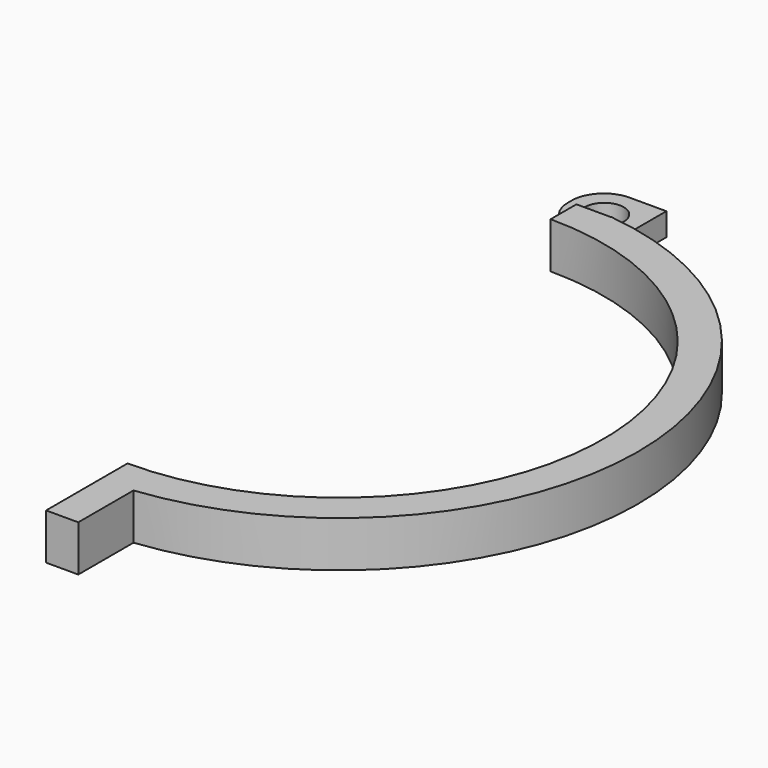
from build123d import *

# Parameters (mm, degrees)
SKETCH_R     = 4.25
PAD_DEPTH    = 10
SKETCH001_W  = 16
SKETCH001_H  = 16
POCKET_DEPTH = 5
FILLET_R     = 7


with BuildPart() as part:
    # Sketch → Pad (new body)
    with BuildSketch(Plane.XY):
        with BuildLine():
            ThreePointArc((0, -57.5), (57.5, 0), (0, 57.5))
            Line((0, 64.565858), (0, 57.5))
            Line((-7.5, 64.565858), (0, 64.565858))
            Line((-7.5, 79.565858), (-7.5, 64.565858))
            Line((7.5, 79.565858), (-7.5, 79.565858))
            Line((7.5, 64.565858), (7.5, 79.565858))
            ThreePointArc((7, -64.621978), (64.999513, -0.25157), (7.5, 64.565858))
            Line((7, -64.621978), (7, -79.621978))
            Line((7, -79.621978), (0, -79.621978))
            Line((0, -79.621978), (0, -57.5))
        make_face()
        with Locations((0, 72.065858)):
            Circle(SKETCH_R, mode=Mode.SUBTRACT)
    extrude(amount=PAD_DEPTH)

    # Sketch001 (on Face13 of Pad) → Pocket (cut)
    with BuildSketch(Plane.XY.offset(10)):
        with Locations((-0.5, 72.5)):
            Rectangle(SKETCH001_W, SKETCH001_H)
    extrude(amount=-POCKET_DEPTH, mode=Mode.SUBTRACT)

    # Fillet
    fillet_edges = [part.edges().sort_by_distance(p)[0] for p in [
        (-7.5, 64.565858, 2.5),
        (-7.5, 79.565858, 2.5),
    ]]
    fillet(fillet_edges, radius=FILLET_R)


solid = part.part
